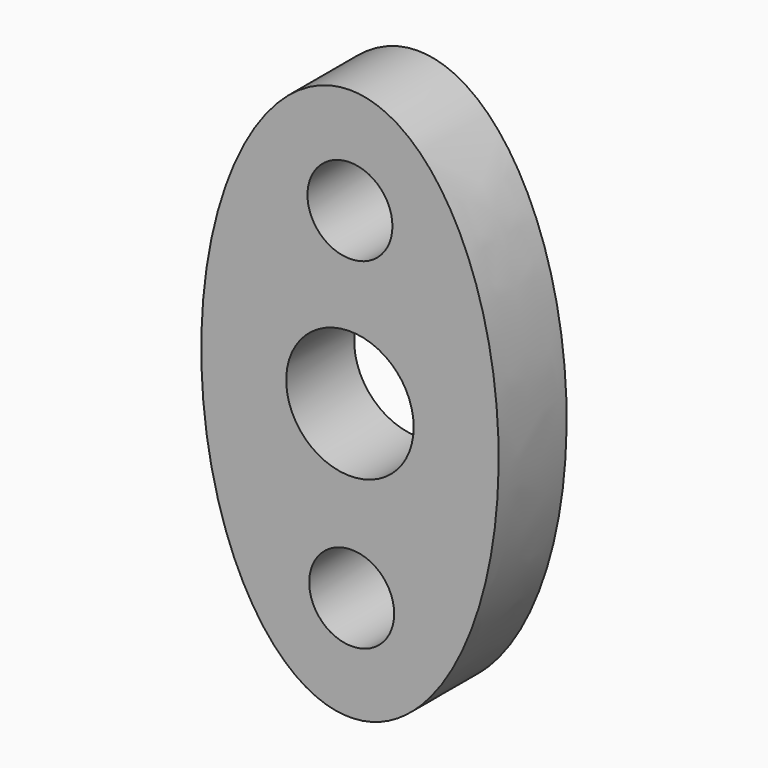
from build123d import *

# Parameters (mm, degrees)
F0_R     = 1
F0_R_2   = 1.5
F1_DEPTH = 2


with BuildPart() as f1:
    # F0 (on Front) → F1 (new body)
    with BuildSketch(Plane.XZ):
        with BuildLine():
            add(Edge.make_bspline(
                [(0, 6.5), (-6.062178, 6.5), (-3.031089, -3.25), (0, -13), (3.031089, -3.25), (6.062178, 6.5), (0, 6.5)],
                knots=[0, 0, 0, 2.094395, 2.094395, 4.18879, 4.18879, 6.283185, 6.283185, 6.283185], degree=2, weights=[1, 0.5, 1, 0.5, 1, 0.5, 1]))
        make_face()
        with Locations((0.040753, -4.01519)):
            Circle(F0_R, mode=Mode.SUBTRACT)
        Circle(F0_R_2, mode=Mode.SUBTRACT)
        with Locations((0, 4)):
            Circle(F0_R, mode=Mode.SUBTRACT)
    extrude(amount=-F1_DEPTH)


solid = f1.part
